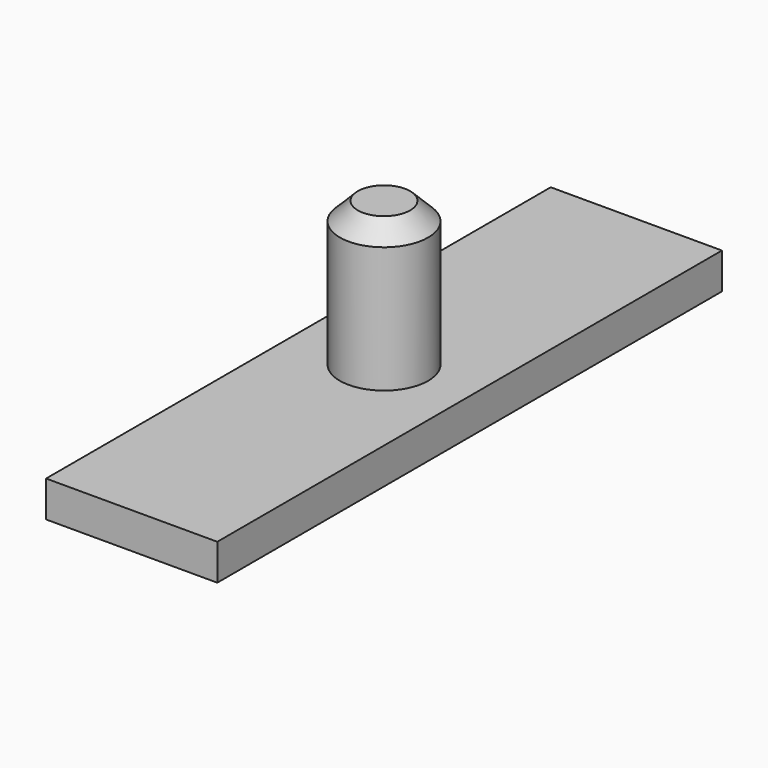
from build123d import *

# Parameters (mm, degrees)
F0_W     = 9.5
F0_H     = 35
F1_DEPTH = 2
F2_R     = 2.45
F3_DEPTH = 8
F4_SIZE  = 1


with BuildPart() as f1:
    # F0 (on Top) → F1 (new body)
    with BuildSketch(Plane.XY):
        with Locations((4.75, 17.5)):
            Rectangle(F0_W, F0_H)
    extrude(amount=F1_DEPTH)

    # F2 (on face) → F3 (join)
    with BuildSketch(Plane.XY.offset(2)):
        with Locations((4.75, 17.5)):
            Circle(F2_R)
    extrude(amount=F3_DEPTH)

    # F4
    f4_edges = [f1.edges().sort_by_distance(p)[0] for p in [
        (2.3, 17.5, 10),
    ]]
    chamfer(f4_edges, length=F4_SIZE)


solid = f1.part
